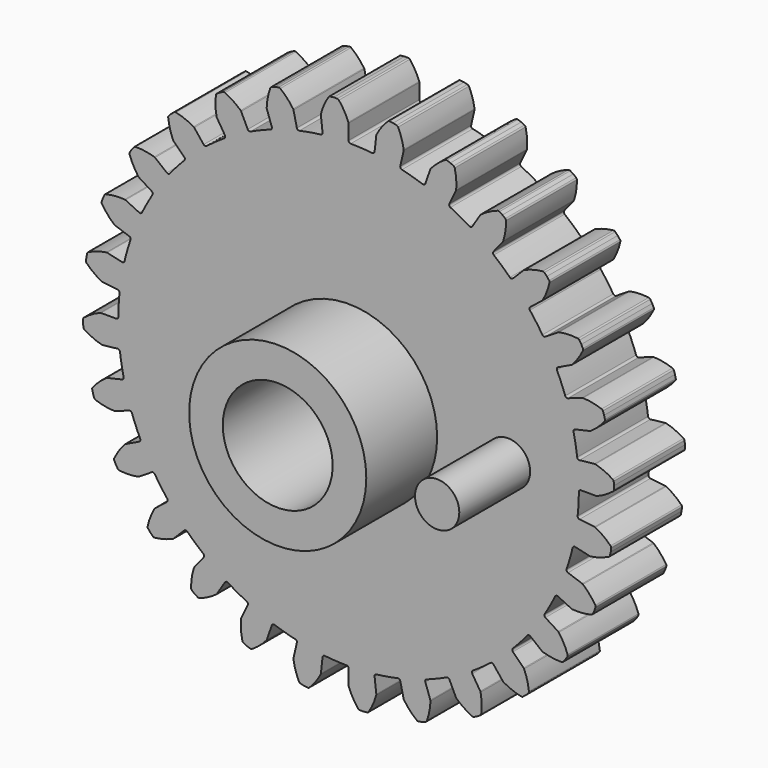
from build123d import *

# Parameters (mm, degrees)
F1_DEPTH = 6.35
F2_R     = 6.35
F3_DEPTH = 6.35
F5_D     = 7.874
F6_R     = 1.5875
F7_DEPTH = 6.35


with BuildPart() as f1:
    # F0 (on Front) → F1 (new body)
    with BuildSketch(Plane.XZ):
        with BuildLine():
            ThreePointArc((-1.865519, 16.556938), (-1.897376, 16.4454), (-1.998513, 16.388595))
            ThreePointArc((-1.998513, 16.388595), (-2.765528, 16.276731), (-3.526447, 16.128989))
            ThreePointArc((-3.526447, 16.128989), (-3.64067, 16.149203), (-3.707578, 16.243959))
            Line((-3.707578, 16.243959), (-3.950069, 17.306383))
            ThreePointArc((-3.950069, 17.306383), (-3.958954, 17.333393), (-3.972702, 17.358282))
            ThreePointArc((-3.972702, 17.358282), (-4.39738, 17.88924), (-4.898067, 18.34922))
            ThreePointArc((-4.898067, 18.34922), (-4.958872, 18.378126), (-5.026198, 18.378013))
            Line((-5.026198, 18.378013), (-5.278053, 18.320529))
            Line((-5.278053, 18.320529), (-5.521889, 18.235207))
            ThreePointArc((-5.521889, 18.235207), (-5.578956, 18.199483), (-5.615062, 18.142657))
            ThreePointArc((-5.615062, 18.142657), (-5.794281, 17.4868), (-5.871379, 16.811282))
            ThreePointArc((-5.871379, 16.811282), (-5.869778, 16.782894), (-5.862932, 16.755297))
            Line((-5.862932, 16.755297), (-5.503012, 15.726704))
            ThreePointArc((-5.503012, 15.726704), (-5.509251, 15.610874), (-5.595211, 15.532988))
            ThreePointArc((-5.595211, 15.532988), (-6.318103, 15.253251), (-7.027069, 14.939893))
            ThreePointArc((-7.027069, 14.939893), (-7.142926, 14.934183), (-7.229242, 15.011676))
            Line((-7.229242, 15.011676), (-7.702065, 15.993503))
            ThreePointArc((-7.702065, 15.993503), (-7.716738, 16.017858), (-7.735679, 16.039064))
            ThreePointArc((-7.735679, 16.039064), (-8.267859, 16.462211), (-8.858348, 16.799244))
            ThreePointArc((-8.858348, 16.799244), (-8.92406, 16.813895), (-8.989674, 16.798804))
            Line((-8.989674, 16.798804), (-9.222423, 16.686718))
            Line((-9.222423, 16.686718), (-9.441159, 16.549277))
            ThreePointArc((-9.441159, 16.549277), (-9.488846, 16.50175), (-9.511401, 16.438314))
            ThreePointArc((-9.511401, 16.438314), (-9.540186, 15.75902), (-9.465034, 15.083283))
            ThreePointArc((-9.465034, 15.083283), (-9.457156, 15.055963), (-9.44434, 15.030582))
            Line((-9.44434, 15.030582), (-8.86456, 14.107867))
            ThreePointArc((-8.86456, 14.107867), (-8.844869, 13.993553), (-8.911343, 13.898492))
            ThreePointArc((-8.911343, 13.898492), (-9.553863, 13.46491), (-10.175325, 13.001649))
            ThreePointArc((-10.175325, 13.001649), (-10.287007, 12.970302), (-10.388402, 13.026644))
            Line((-10.388402, 13.026644), (-11.067848, 13.878642))
            ThreePointArc((-11.067848, 13.878642), (-11.087572, 13.899121), (-11.110757, 13.91558))
            ThreePointArc((-11.110757, 13.91558), (-11.723753, 14.209697), (-12.374434, 14.406884))
            ThreePointArc((-12.374434, 14.406884), (-12.441759, 14.406545), (-12.502369, 14.377232))
            Line((-12.502369, 14.377232), (-12.704341, 14.216165))
            Line((-12.704341, 14.216165), (-12.88701, 14.033496))
            ThreePointArc((-12.88701, 14.033496), (-12.922925, 13.976549), (-12.930799, 13.909685))
            ThreePointArc((-12.930799, 13.909685), (-12.807705, 13.241018), (-12.584072, 12.598946))
            ThreePointArc((-12.584072, 12.598946), (-12.570312, 12.574063), (-12.55217, 12.55217))
            Line((-12.55217, 12.55217), (-11.781603, 11.781603))
            ThreePointArc((-11.781603, 11.781603), (-11.736968, 11.674537), (-11.780622, 11.567067))
            ThreePointArc((-11.780622, 11.567067), (-12.310552, 11.001382), (-12.813347, 10.411447))
            ThreePointArc((-12.813347, 10.411447), (-12.915254, 10.356035), (-13.026644, 10.388402))
            Line((-13.026644, 10.388402), (-13.878642, 11.067848))
            ThreePointArc((-13.878642, 11.067848), (-13.902429, 11.083424), (-13.928695, 11.094312))
            ThreePointArc((-13.928695, 11.094312), (-14.591769, 11.24465), (-15.270014, 11.292103))
            ThreePointArc((-15.270014, 11.292103), (-15.335576, 11.276791), (-15.388144, 11.234726))
            Line((-15.388144, 11.234726), (-15.549211, 11.032754))
            Line((-15.549211, 11.032754), (-15.686652, 10.814018))
            ThreePointArc((-15.686652, 10.814018), (-15.708995, 10.750507), (-15.701793, 10.683567))
            ThreePointArc((-15.701793, 10.683567), (-15.432993, 10.059055), (-15.072092, 9.482844))
            ThreePointArc((-15.072092, 9.482844), (-15.053141, 9.461648), (-15.030582, 9.44434))
            Line((-15.030582, 9.44434), (-14.107867, 8.86456))
            ThreePointArc((-14.107867, 8.86456), (-14.040526, 8.770111), (-14.059172, 8.655622))
            ThreePointArc((-14.059172, 8.655622), (-14.449939, 7.986199), (-14.808855, 7.299173))
            ThreePointArc((-14.808855, 7.299173), (-14.895876, 7.222473), (-15.011676, 7.229242))
            Line((-15.011676, 7.229242), (-15.993503, 7.702065))
            ThreePointArc((-15.993503, 7.702065), (-16.02016, 7.711958), (-16.04819, 7.716728))
            ThreePointArc((-16.04819, 7.716728), (-16.728093, 7.715749), (-17.399892, 7.611088))
            ThreePointArc((-17.399892, 7.611088), (-17.460404, 7.581572), (-17.502293, 7.528864))
            Line((-17.502293, 7.528864), (-17.614379, 7.296115))
            Line((-17.614379, 7.296115), (-17.6997, 7.052279))
            ThreePointArc((-17.6997, 7.052279), (-17.707351, 6.985389), (-17.685434, 6.92173))
            ThreePointArc((-17.685434, 6.92173), (-17.284406, 6.37269), (-16.804335, 5.891234))
            ThreePointArc((-16.804335, 5.891234), (-16.781142, 5.874786), (-16.755297, 5.862932))
            Line((-16.755297, 5.862932), (-15.726704, 5.503012))
            ThreePointArc((-15.726704, 5.503012), (-15.640034, 5.425915), (-15.632736, 5.310147))
            ThreePointArc((-15.632736, 5.310147), (-15.864745, 4.570554), (-16.061785, 3.820887))
            ThreePointArc((-16.061785, 3.820887), (-16.129556, 3.726747), (-16.243959, 3.707578))
            Line((-16.243959, 3.707578), (-17.306383, 3.950069))
            ThreePointArc((-17.306383, 3.950069), (-17.334573, 3.953783), (-17.362962, 3.952195))
            ThreePointArc((-17.362962, 3.952195), (-18.0256, 3.799948), (-18.657267, 3.548422))
            ThreePointArc((-18.657267, 3.548422), (-18.709693, 3.506181), (-18.738803, 3.445473))
            Line((-18.738803, 3.445473), (-18.796288, 3.193618))
            Line((-18.796288, 3.193618), (-18.825212, 2.93691))
            ThreePointArc((-18.825212, 2.93691), (-18.817786, 2.869994), (-18.782253, 2.812808))
            ThreePointArc((-18.782253, 2.812808), (-18.269107, 2.366771), (-17.693938, 2.004212))
            ThreePointArc((-17.693938, 2.004212), (-17.667666, 1.993337), (-17.639832, 1.987532))
            Line((-17.639832, 1.987532), (-16.556938, 1.865519))
            ThreePointArc((-16.556938, 1.865519), (-16.455286, 1.809641), (-16.42241, 1.6984))
            ThreePointArc((-16.42241, 1.6984), (-16.484027, 0.925723), (-16.509309, 0.151006))
            ThreePointArc((-16.509309, 0.151006), (-16.554434, 0.044145), (-16.661703, 0))
            Line((-16.661703, 0), (-17.751449, 0))
            ThreePointArc((-17.751449, 0), (-17.779759, -0.002652), (-17.807083, -0.010517))
            ThreePointArc((-17.807083, -0.010517), (-18.419229, -0.306398), (-18.979089, -0.692177))
            ThreePointArc((-18.979089, -0.692177), (-19.020801, -0.745025), (-19.035672, -0.810688))
            Line((-19.035672, -0.810688), (-19.035672, -1.06902))
            Line((-19.035672, -1.06902), (-19.006748, -1.325728))
            ThreePointArc((-19.006748, -1.325728), (-18.984618, -1.389314), (-18.937251, -1.437159))
            ThreePointArc((-18.937251, -1.437159), (-18.337718, -1.757828), (-17.696293, -1.983309))
            ThreePointArc((-17.696293, -1.983309), (-17.66826, -1.988066), (-17.639832, -1.987532))
            Line((-17.639832, -1.987532), (-16.556938, -1.865519))
            ThreePointArc((-16.556938, -1.865519), (-16.4454, -1.897376), (-16.388595, -1.998513))
            ThreePointArc((-16.388595, -1.998513), (-16.276731, -2.765528), (-16.128989, -3.526447))
            ThreePointArc((-16.128989, -3.526447), (-16.149203, -3.64067), (-16.243959, -3.707578))
            Line((-16.243959, -3.707578), (-17.306383, -3.950069))
            ThreePointArc((-17.306383, -3.950069), (-17.333393, -3.958954), (-17.358282, -3.972702))
            ThreePointArc((-17.358282, -3.972702), (-17.88924, -4.39738), (-18.34922, -4.898067))
            ThreePointArc((-18.34922, -4.898067), (-18.378126, -4.958872), (-18.378013, -5.026198))
            Line((-18.378013, -5.026198), (-18.320529, -5.278053))
            Line((-18.320529, -5.278053), (-18.235207, -5.521889))
            ThreePointArc((-18.235207, -5.521889), (-18.199483, -5.578956), (-18.142657, -5.615062))
            ThreePointArc((-18.142657, -5.615062), (-17.4868, -5.794281), (-16.811282, -5.871379))
            ThreePointArc((-16.811282, -5.871379), (-16.782894, -5.869778), (-16.755297, -5.862932))
            Line((-16.755297, -5.862932), (-15.726704, -5.503012))
            ThreePointArc((-15.726704, -5.503012), (-15.610874, -5.509251), (-15.532988, -5.595211))
            ThreePointArc((-15.532988, -5.595211), (-15.253251, -6.318103), (-14.939893, -7.027069))
            ThreePointArc((-14.939893, -7.027069), (-14.934183, -7.142926), (-15.011676, -7.229242))
            Line((-15.011676, -7.229242), (-15.993503, -7.702065))
            ThreePointArc((-15.993503, -7.702065), (-16.017858, -7.716738), (-16.039064, -7.735679))
            ThreePointArc((-16.039064, -7.735679), (-16.462211, -8.267859), (-16.799244, -8.858348))
            ThreePointArc((-16.799244, -8.858348), (-16.813895, -8.92406), (-16.798804, -8.989674))
            Line((-16.798804, -8.989674), (-16.686718, -9.222423))
            Line((-16.686718, -9.222423), (-16.549277, -9.441159))
            ThreePointArc((-16.549277, -9.441159), (-16.50175, -9.488846), (-16.438314, -9.511401))
            ThreePointArc((-16.438314, -9.511401), (-15.75902, -9.540186), (-15.083283, -9.465034))
            ThreePointArc((-15.083283, -9.465034), (-15.055963, -9.457156), (-15.030582, -9.44434))
            Line((-15.030582, -9.44434), (-14.107867, -8.86456))
            ThreePointArc((-14.107867, -8.86456), (-13.993553, -8.844869), (-13.898492, -8.911343))
            ThreePointArc((-13.898492, -8.911343), (-13.46491, -9.553863), (-13.001649, -10.175325))
            ThreePointArc((-13.001649, -10.175325), (-12.970302, -10.287007), (-13.026644, -10.388402))
            Line((-13.026644, -10.388402), (-13.878642, -11.067848))
            ThreePointArc((-13.878642, -11.067848), (-13.899121, -11.087572), (-13.91558, -11.110757))
            ThreePointArc((-13.91558, -11.110757), (-14.209697, -11.723753), (-14.406884, -12.374434))
            ThreePointArc((-14.406884, -12.374434), (-14.406545, -12.441759), (-14.377232, -12.502369))
            Line((-14.377232, -12.502369), (-14.216165, -12.704341))
            Line((-14.216165, -12.704341), (-14.033496, -12.88701))
            ThreePointArc((-14.033496, -12.88701), (-13.976549, -12.922925), (-13.909685, -12.930799))
            ThreePointArc((-13.909685, -12.930799), (-13.241018, -12.807705), (-12.598946, -12.584072))
            ThreePointArc((-12.598946, -12.584072), (-12.574063, -12.570312), (-12.55217, -12.55217))
            Line((-12.55217, -12.55217), (-11.781603, -11.781603))
            ThreePointArc((-11.781603, -11.781603), (-11.674537, -11.736968), (-11.567067, -11.780622))
            ThreePointArc((-11.567067, -11.780622), (-11.001382, -12.310552), (-10.411447, -12.813347))
            ThreePointArc((-10.411447, -12.813347), (-10.356035, -12.915254), (-10.388402, -13.026644))
            Line((-10.388402, -13.026644), (-11.067848, -13.878642))
            ThreePointArc((-11.067848, -13.878642), (-11.083424, -13.902429), (-11.094312, -13.928695))
            ThreePointArc((-11.094312, -13.928695), (-11.24465, -14.591769), (-11.292103, -15.270014))
            ThreePointArc((-11.292103, -15.270014), (-11.276791, -15.335576), (-11.234726, -15.388144))
            Line((-11.234726, -15.388144), (-11.032754, -15.549211))
            Line((-11.032754, -15.549211), (-10.814018, -15.686652))
            ThreePointArc((-10.814018, -15.686652), (-10.750507, -15.708995), (-10.683567, -15.701793))
            ThreePointArc((-10.683567, -15.701793), (-10.059055, -15.432993), (-9.482844, -15.072092))
            ThreePointArc((-9.482844, -15.072092), (-9.461648, -15.053141), (-9.44434, -15.030582))
            Line((-9.44434, -15.030582), (-8.86456, -14.107867))
            ThreePointArc((-8.86456, -14.107867), (-8.770111, -14.040526), (-8.655622, -14.059172))
            ThreePointArc((-8.655622, -14.059172), (-7.986199, -14.449939), (-7.299173, -14.808855))
            ThreePointArc((-7.299173, -14.808855), (-7.222473, -14.895876), (-7.229242, -15.011676))
            Line((-7.229242, -15.011676), (-7.702065, -15.993503))
            ThreePointArc((-7.702065, -15.993503), (-7.711958, -16.02016), (-7.716728, -16.04819))
            ThreePointArc((-7.716728, -16.04819), (-7.715749, -16.728093), (-7.611088, -17.399892))
            ThreePointArc((-7.611088, -17.399892), (-7.581572, -17.460404), (-7.528864, -17.502293))
            Line((-7.528864, -17.502293), (-7.296115, -17.614379))
            Line((-7.296115, -17.614379), (-7.052279, -17.6997))
            ThreePointArc((-7.052279, -17.6997), (-6.985389, -17.707351), (-6.92173, -17.685434))
            ThreePointArc((-6.92173, -17.685434), (-6.37269, -17.284406), (-5.891234, -16.804335))
            ThreePointArc((-5.891234, -16.804335), (-5.874786, -16.781142), (-5.862932, -16.755297))
            Line((-5.862932, -16.755297), (-5.503012, -15.726704))
            ThreePointArc((-5.503012, -15.726704), (-5.425915, -15.640034), (-5.310147, -15.632736))
            ThreePointArc((-5.310147, -15.632736), (-4.570554, -15.864745), (-3.820887, -16.061785))
            ThreePointArc((-3.820887, -16.061785), (-3.726747, -16.129556), (-3.707578, -16.243959))
            Line((-3.707578, -16.243959), (-3.950069, -17.306383))
            ThreePointArc((-3.950069, -17.306383), (-3.953783, -17.334573), (-3.952195, -17.362962))
            ThreePointArc((-3.952195, -17.362962), (-3.799948, -18.0256), (-3.548422, -18.657267))
            ThreePointArc((-3.548422, -18.657267), (-3.506181, -18.709693), (-3.445473, -18.738803))
            Line((-3.445473, -18.738803), (-3.193618, -18.796288))
            Line((-3.193618, -18.796288), (-2.93691, -18.825212))
            ThreePointArc((-2.93691, -18.825212), (-2.869994, -18.817786), (-2.812808, -18.782253))
            ThreePointArc((-2.812808, -18.782253), (-2.366771, -18.269107), (-2.004212, -17.693938))
            ThreePointArc((-2.004212, -17.693938), (-1.993337, -17.667666), (-1.987532, -17.639832))
            Line((-1.987532, -17.639832), (-1.865519, -16.556938))
            ThreePointArc((-1.865519, -16.556938), (-1.809641, -16.455286), (-1.6984, -16.42241))
            ThreePointArc((-1.6984, -16.42241), (-0.925723, -16.484027), (-0.151006, -16.509309))
            ThreePointArc((-0.151006, -16.509309), (-0.044145, -16.554434), (0, -16.661703))
            Line((0, -16.661703), (0, -17.751449))
            ThreePointArc((0, -17.751449), (0.002652, -17.779759), (0.010517, -17.807083))
            ThreePointArc((0.010517, -17.807083), (0.306398, -18.419229), (0.692177, -18.979089))
            ThreePointArc((0.692177, -18.979089), (0.745025, -19.020801), (0.810688, -19.035672))
            Line((0.810688, -19.035672), (1.06902, -19.035672))
            Line((1.06902, -19.035672), (1.325728, -19.006748))
            ThreePointArc((1.325728, -19.006748), (1.389314, -18.984618), (1.437159, -18.937251))
            ThreePointArc((1.437159, -18.937251), (1.757828, -18.337718), (1.983309, -17.696293))
            ThreePointArc((1.983309, -17.696293), (1.988066, -17.66826), (1.987532, -17.639832))
            Line((1.987532, -17.639832), (1.865519, -16.556938))
            ThreePointArc((1.865519, -16.556938), (1.897376, -16.4454), (1.998513, -16.388595))
            ThreePointArc((1.998513, -16.388595), (2.765528, -16.276731), (3.526447, -16.128989))
            ThreePointArc((3.526447, -16.128989), (3.64067, -16.149203), (3.707578, -16.243959))
            Line((3.707578, -16.243959), (3.950069, -17.306383))
            ThreePointArc((3.950069, -17.306383), (3.958954, -17.333393), (3.972702, -17.358282))
            ThreePointArc((3.972702, -17.358282), (4.39738, -17.88924), (4.898067, -18.34922))
            ThreePointArc((4.898067, -18.34922), (4.958872, -18.378126), (5.026198, -18.378013))
            Line((5.026198, -18.378013), (5.278053, -18.320529))
            Line((5.278053, -18.320529), (5.521889, -18.235207))
            ThreePointArc((5.521889, -18.235207), (5.578956, -18.199483), (5.615062, -18.142657))
            ThreePointArc((5.615062, -18.142657), (5.794281, -17.4868), (5.871379, -16.811282))
            ThreePointArc((5.871379, -16.811282), (5.869778, -16.782894), (5.862932, -16.755297))
            Line((5.862932, -16.755297), (5.503012, -15.726704))
            ThreePointArc((5.503012, -15.726704), (5.509251, -15.610874), (5.595211, -15.532988))
            ThreePointArc((5.595211, -15.532988), (6.318103, -15.253251), (7.027069, -14.939893))
            ThreePointArc((7.027069, -14.939893), (7.142926, -14.934183), (7.229242, -15.011676))
            Line((7.229242, -15.011676), (7.702065, -15.993503))
            ThreePointArc((7.702065, -15.993503), (7.716738, -16.017858), (7.735679, -16.039064))
            ThreePointArc((7.735679, -16.039064), (8.267859, -16.462211), (8.858348, -16.799244))
            ThreePointArc((8.858348, -16.799244), (8.92406, -16.813895), (8.989674, -16.798804))
            Line((8.989674, -16.798804), (9.222423, -16.686718))
            Line((9.222423, -16.686718), (9.441159, -16.549277))
            ThreePointArc((9.441159, -16.549277), (9.488846, -16.50175), (9.511401, -16.438314))
            ThreePointArc((9.511401, -16.438314), (9.540186, -15.75902), (9.465034, -15.083283))
            ThreePointArc((9.465034, -15.083283), (9.457156, -15.055963), (9.44434, -15.030582))
            Line((9.44434, -15.030582), (8.86456, -14.107867))
            ThreePointArc((8.86456, -14.107867), (8.844869, -13.993553), (8.911343, -13.898492))
            ThreePointArc((8.911343, -13.898492), (9.553863, -13.46491), (10.175325, -13.001649))
            ThreePointArc((10.175325, -13.001649), (10.287007, -12.970302), (10.388402, -13.026644))
            Line((10.388402, -13.026644), (11.067848, -13.878642))
            ThreePointArc((11.067848, -13.878642), (11.087572, -13.899121), (11.110757, -13.91558))
            ThreePointArc((11.110757, -13.91558), (11.723753, -14.209697), (12.374434, -14.406884))
            ThreePointArc((12.374434, -14.406884), (12.441759, -14.406545), (12.502369, -14.377232))
            Line((12.502369, -14.377232), (12.704341, -14.216165))
            Line((12.704341, -14.216165), (12.88701, -14.033496))
            ThreePointArc((12.88701, -14.033496), (12.922925, -13.976549), (12.930799, -13.909685))
            ThreePointArc((12.930799, -13.909685), (12.807705, -13.241018), (12.584072, -12.598946))
            ThreePointArc((12.584072, -12.598946), (12.570312, -12.574063), (12.55217, -12.55217))
            Line((12.55217, -12.55217), (11.781603, -11.781603))
            ThreePointArc((11.781603, -11.781603), (11.736968, -11.674537), (11.780622, -11.567067))
            ThreePointArc((11.780622, -11.567067), (12.310552, -11.001382), (12.813347, -10.411447))
            ThreePointArc((12.813347, -10.411447), (12.915254, -10.356035), (13.026644, -10.388402))
            Line((13.026644, -10.388402), (13.878642, -11.067848))
            ThreePointArc((13.878642, -11.067848), (13.902429, -11.083424), (13.928695, -11.094312))
            ThreePointArc((13.928695, -11.094312), (14.591769, -11.24465), (15.270014, -11.292103))
            ThreePointArc((15.270014, -11.292103), (15.335576, -11.276791), (15.388144, -11.234726))
            Line((15.388144, -11.234726), (15.549211, -11.032754))
            Line((15.549211, -11.032754), (15.686652, -10.814018))
            ThreePointArc((15.686652, -10.814018), (15.708995, -10.750507), (15.701793, -10.683567))
            ThreePointArc((15.701793, -10.683567), (15.432993, -10.059055), (15.072092, -9.482844))
            ThreePointArc((15.072092, -9.482844), (15.053141, -9.461648), (15.030582, -9.44434))
            Line((15.030582, -9.44434), (14.107867, -8.86456))
            ThreePointArc((14.107867, -8.86456), (14.040526, -8.770111), (14.059172, -8.655622))
            ThreePointArc((14.059172, -8.655622), (14.449939, -7.986199), (14.808855, -7.299173))
            ThreePointArc((14.808855, -7.299173), (14.895876, -7.222473), (15.011676, -7.229242))
            Line((15.011676, -7.229242), (15.993503, -7.702065))
            ThreePointArc((15.993503, -7.702065), (16.02016, -7.711958), (16.04819, -7.716728))
            ThreePointArc((16.04819, -7.716728), (16.728093, -7.715749), (17.399892, -7.611088))
            ThreePointArc((17.399892, -7.611088), (17.460404, -7.581572), (17.502293, -7.528864))
            Line((17.502293, -7.528864), (17.614379, -7.296115))
            Line((17.614379, -7.296115), (17.6997, -7.052279))
            ThreePointArc((17.6997, -7.052279), (17.707351, -6.985389), (17.685434, -6.92173))
            ThreePointArc((17.685434, -6.92173), (17.284406, -6.37269), (16.804335, -5.891234))
            ThreePointArc((16.804335, -5.891234), (16.781142, -5.874786), (16.755297, -5.862932))
            Line((16.755297, -5.862932), (15.726704, -5.503012))
            ThreePointArc((15.726704, -5.503012), (15.640034, -5.425915), (15.632736, -5.310147))
            ThreePointArc((15.632736, -5.310147), (15.864745, -4.570554), (16.061785, -3.820887))
            ThreePointArc((16.061785, -3.820887), (16.129556, -3.726747), (16.243959, -3.707578))
            Line((16.243959, -3.707578), (17.306383, -3.950069))
            ThreePointArc((17.306383, -3.950069), (17.334573, -3.953783), (17.362962, -3.952195))
            ThreePointArc((17.362962, -3.952195), (18.0256, -3.799948), (18.657267, -3.548422))
            ThreePointArc((18.657267, -3.548422), (18.709693, -3.506181), (18.738803, -3.445473))
            Line((18.738803, -3.445473), (18.796288, -3.193618))
            Line((18.796288, -3.193618), (18.825212, -2.93691))
            ThreePointArc((18.825212, -2.93691), (18.817786, -2.869994), (18.782253, -2.812808))
            ThreePointArc((18.782253, -2.812808), (18.269107, -2.366771), (17.693938, -2.004212))
            ThreePointArc((17.693938, -2.004212), (17.667666, -1.993337), (17.639832, -1.987532))
            Line((17.639832, -1.987532), (16.556938, -1.865519))
            ThreePointArc((16.556938, -1.865519), (16.455286, -1.809641), (16.42241, -1.6984))
            ThreePointArc((16.42241, -1.6984), (16.484027, -0.925723), (16.509309, -0.151006))
            ThreePointArc((16.509309, -0.151006), (16.554434, -0.044145), (16.661703, 0))
            Line((16.661703, 0), (17.751449, 0))
            ThreePointArc((17.751449, 0), (17.779759, 0.002652), (17.807083, 0.010517))
            ThreePointArc((17.807083, 0.010517), (18.419229, 0.306398), (18.979089, 0.692177))
            ThreePointArc((18.979089, 0.692177), (19.020801, 0.745025), (19.035672, 0.810688))
            Line((19.035672, 0.810688), (19.035672, 1.06902))
            Line((19.035672, 1.06902), (19.006748, 1.325728))
            ThreePointArc((19.006748, 1.325728), (18.984618, 1.389314), (18.937251, 1.437159))
            ThreePointArc((18.937251, 1.437159), (18.337718, 1.757828), (17.696293, 1.983309))
            ThreePointArc((17.696293, 1.983309), (17.66826, 1.988066), (17.639832, 1.987532))
            Line((17.639832, 1.987532), (16.556938, 1.865519))
            ThreePointArc((16.556938, 1.865519), (16.4454, 1.897376), (16.388595, 1.998513))
            ThreePointArc((16.388595, 1.998513), (16.276731, 2.765528), (16.128989, 3.526447))
            ThreePointArc((16.128989, 3.526447), (16.149203, 3.64067), (16.243959, 3.707578))
            Line((16.243959, 3.707578), (17.306383, 3.950069))
            ThreePointArc((17.306383, 3.950069), (17.333393, 3.958954), (17.358282, 3.972702))
            ThreePointArc((17.358282, 3.972702), (17.88924, 4.39738), (18.34922, 4.898067))
            ThreePointArc((18.34922, 4.898067), (18.378126, 4.958872), (18.378013, 5.026198))
            Line((18.378013, 5.026198), (18.320529, 5.278053))
            Line((18.320529, 5.278053), (18.235207, 5.521889))
            ThreePointArc((18.235207, 5.521889), (18.199483, 5.578956), (18.142657, 5.615062))
            ThreePointArc((18.142657, 5.615062), (17.4868, 5.794281), (16.811282, 5.871379))
            ThreePointArc((16.811282, 5.871379), (16.782894, 5.869778), (16.755297, 5.862932))
            Line((16.755297, 5.862932), (15.726704, 5.503012))
            ThreePointArc((15.726704, 5.503012), (15.610874, 5.509251), (15.532988, 5.595211))
            ThreePointArc((15.532988, 5.595211), (15.253251, 6.318103), (14.939893, 7.027069))
            ThreePointArc((14.939893, 7.027069), (14.934183, 7.142926), (15.011676, 7.229242))
            Line((15.011676, 7.229242), (15.993503, 7.702065))
            ThreePointArc((15.993503, 7.702065), (16.017858, 7.716738), (16.039064, 7.735679))
            ThreePointArc((16.039064, 7.735679), (16.462211, 8.267859), (16.799244, 8.858348))
            ThreePointArc((16.799244, 8.858348), (16.813895, 8.92406), (16.798804, 8.989674))
            Line((16.798804, 8.989674), (16.686718, 9.222423))
            Line((16.686718, 9.222423), (16.549277, 9.441159))
            ThreePointArc((16.549277, 9.441159), (16.50175, 9.488846), (16.438314, 9.511401))
            ThreePointArc((16.438314, 9.511401), (15.75902, 9.540186), (15.083283, 9.465034))
            ThreePointArc((15.083283, 9.465034), (15.055963, 9.457156), (15.030582, 9.44434))
            Line((15.030582, 9.44434), (14.107867, 8.86456))
            ThreePointArc((14.107867, 8.86456), (13.993553, 8.844869), (13.898492, 8.911343))
            ThreePointArc((13.898492, 8.911343), (13.46491, 9.553863), (13.001649, 10.175325))
            ThreePointArc((13.001649, 10.175325), (12.970302, 10.287007), (13.026644, 10.388402))
            Line((13.026644, 10.388402), (13.878642, 11.067848))
            ThreePointArc((13.878642, 11.067848), (13.899121, 11.087572), (13.91558, 11.110757))
            ThreePointArc((13.91558, 11.110757), (14.209697, 11.723753), (14.406884, 12.374434))
            ThreePointArc((14.406884, 12.374434), (14.406545, 12.441759), (14.377232, 12.502369))
            Line((14.377232, 12.502369), (14.216165, 12.704341))
            Line((14.216165, 12.704341), (14.033496, 12.88701))
            ThreePointArc((14.033496, 12.88701), (13.976549, 12.922925), (13.909685, 12.930799))
            ThreePointArc((13.909685, 12.930799), (13.241018, 12.807705), (12.598946, 12.584072))
            ThreePointArc((12.598946, 12.584072), (12.574063, 12.570312), (12.55217, 12.55217))
            Line((12.55217, 12.55217), (11.781603, 11.781603))
            ThreePointArc((11.781603, 11.781603), (11.674537, 11.736968), (11.567067, 11.780622))
            ThreePointArc((11.567067, 11.780622), (11.001382, 12.310552), (10.411447, 12.813347))
            ThreePointArc((10.411447, 12.813347), (10.356035, 12.915254), (10.388402, 13.026644))
            Line((10.388402, 13.026644), (11.067848, 13.878642))
            ThreePointArc((11.067848, 13.878642), (11.083424, 13.902429), (11.094312, 13.928695))
            ThreePointArc((11.094312, 13.928695), (11.24465, 14.591769), (11.292103, 15.270014))
            ThreePointArc((11.292103, 15.270014), (11.276791, 15.335576), (11.234726, 15.388144))
            Line((11.234726, 15.388144), (11.032754, 15.549211))
            Line((11.032754, 15.549211), (10.814018, 15.686652))
            ThreePointArc((10.814018, 15.686652), (10.750507, 15.708995), (10.683567, 15.701793))
            ThreePointArc((10.683567, 15.701793), (10.059055, 15.432993), (9.482844, 15.072092))
            ThreePointArc((9.482844, 15.072092), (9.461648, 15.053141), (9.44434, 15.030582))
            Line((9.44434, 15.030582), (8.86456, 14.107867))
            ThreePointArc((8.86456, 14.107867), (8.770111, 14.040526), (8.655622, 14.059172))
            ThreePointArc((8.655622, 14.059172), (7.986199, 14.449939), (7.299173, 14.808855))
            ThreePointArc((7.299173, 14.808855), (7.222473, 14.895876), (7.229242, 15.011676))
            Line((7.229242, 15.011676), (7.702065, 15.993503))
            ThreePointArc((7.702065, 15.993503), (7.711958, 16.02016), (7.716728, 16.04819))
            ThreePointArc((7.716728, 16.04819), (7.715749, 16.728093), (7.611088, 17.399892))
            ThreePointArc((7.611088, 17.399892), (7.581572, 17.460404), (7.528864, 17.502293))
            Line((7.528864, 17.502293), (7.296115, 17.614379))
            Line((7.296115, 17.614379), (7.052279, 17.6997))
            ThreePointArc((7.052279, 17.6997), (6.985389, 17.707351), (6.92173, 17.685434))
            ThreePointArc((6.92173, 17.685434), (6.37269, 17.284406), (5.891234, 16.804335))
            ThreePointArc((5.891234, 16.804335), (5.874786, 16.781142), (5.862932, 16.755297))
            Line((5.862932, 16.755297), (5.503012, 15.726704))
            ThreePointArc((5.503012, 15.726704), (5.425915, 15.640034), (5.310147, 15.632736))
            ThreePointArc((5.310147, 15.632736), (4.570554, 15.864745), (3.820887, 16.061785))
            ThreePointArc((3.820887, 16.061785), (3.726747, 16.129556), (3.707578, 16.243959))
            Line((3.707578, 16.243959), (3.950069, 17.306383))
            ThreePointArc((3.950069, 17.306383), (3.953783, 17.334573), (3.952195, 17.362962))
            ThreePointArc((3.952195, 17.362962), (3.799948, 18.0256), (3.548422, 18.657267))
            ThreePointArc((3.548422, 18.657267), (3.506181, 18.709693), (3.445473, 18.738803))
            Line((3.445473, 18.738803), (3.193618, 18.796288))
            Line((3.193618, 18.796288), (2.93691, 18.825212))
            ThreePointArc((2.93691, 18.825212), (2.869994, 18.817786), (2.812808, 18.782253))
            ThreePointArc((2.812808, 18.782253), (2.366771, 18.269107), (2.004212, 17.693938))
            ThreePointArc((2.004212, 17.693938), (1.993337, 17.667666), (1.987532, 17.639832))
            Line((1.987532, 17.639832), (1.865519, 16.556938))
            ThreePointArc((1.865519, 16.556938), (1.809641, 16.455286), (1.6984, 16.42241))
            ThreePointArc((1.6984, 16.42241), (0.925723, 16.484027), (0.151006, 16.509309))
            ThreePointArc((0.151006, 16.509309), (0.044145, 16.554434), (0, 16.661703))
            Line((0, 16.661703), (0, 17.751449))
            ThreePointArc((0, 17.751449), (-0.002652, 17.779759), (-0.010517, 17.807083))
            ThreePointArc((-0.010517, 17.807083), (-0.306398, 18.419229), (-0.692177, 18.979089))
            ThreePointArc((-0.692177, 18.979089), (-0.745025, 19.020801), (-0.810688, 19.035672))
            Line((-0.810688, 19.035672), (-1.06902, 19.035672))
            Line((-1.06902, 19.035672), (-1.325728, 19.006748))
            ThreePointArc((-1.325728, 19.006748), (-1.389314, 18.984618), (-1.437159, 18.937251))
            ThreePointArc((-1.437159, 18.937251), (-1.757828, 18.337718), (-1.983309, 17.696293))
            ThreePointArc((-1.983309, 17.696293), (-1.988066, 17.66826), (-1.987532, 17.639832))
            Line((-1.987532, 17.639832), (-1.865519, 16.556938))
        make_face()
    extrude(amount=F1_DEPTH)

    # F2 (on face) → F3 (join)
    with BuildSketch(Plane.XZ.offset(6.35)):
        Circle(F2_R)
        Circle(F2_R)
    extrude(amount=F3_DEPTH)

    # F5 (through all)
    with Locations(Plane.XZ.offset(12.7)):
        with Locations((0, 0)):
            Hole(F5_D / 2)

    # F6 (on face) → F7 (join)
    with BuildSketch(Plane.XZ.offset(6.35)):
        with Locations((11.43, 0)):
            Circle(F6_R)
    extrude(amount=F7_DEPTH)


solid = f1.part
